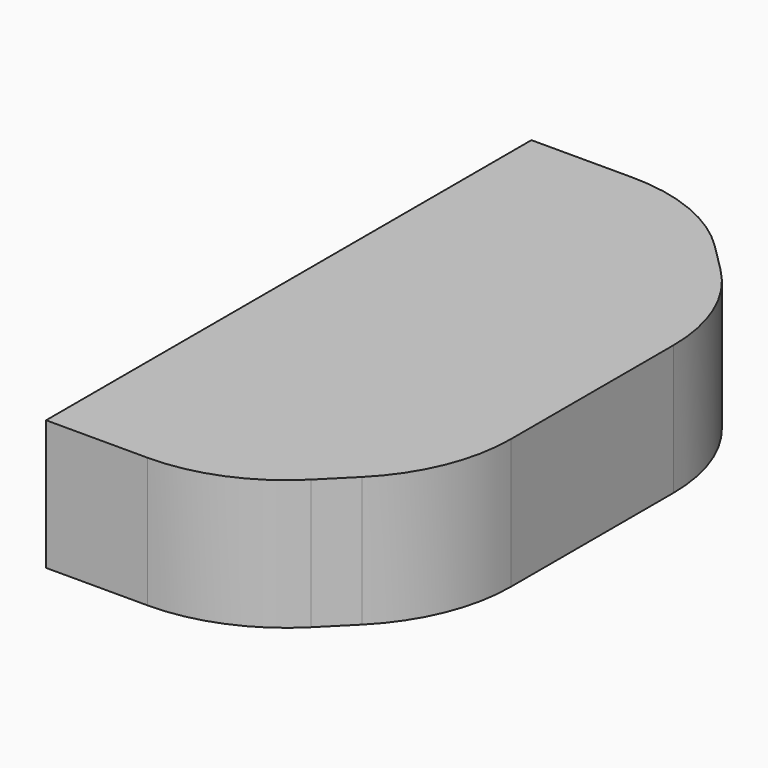
from build123d import *

# Parameters (mm, degrees)
F1_DEPTH = 38.1


with BuildPart() as f1:
    # F0 (on Top) → F1 (new body)
    with BuildSketch(Plane.XY):
        with BuildLine():
            Line((0, 88.9), (0, 0))
            Line((0, 0), (88.9, 0))
            Line((88.9, 0), (88.9, 29.757951))
            ThreePointArc((88.9, 29.757951), (85.03308, 49.198269), (74.021024, 65.678976))
            Line((74.021024, 65.678976), (65.678976, 74.021024))
            ThreePointArc((65.678976, 74.021024), (49.198269, 85.03308), (29.757951, 88.9))
            Line((29.757951, 88.9), (0, 88.9))
        make_face()
        with BuildLine():
            Line((88.9, 0), (0, 0))
            Line((0, 0), (0, -88.9))
            Line((0, -88.9), (29.757951, -88.9))
            ThreePointArc((29.757951, -88.9), (49.198269, -85.03308), (65.678976, -74.021024))
            Line((65.678976, -74.021024), (74.021024, -65.678976))
            ThreePointArc((74.021024, -65.678976), (85.03308, -49.198269), (88.9, -29.757951))
            Line((88.9, -29.757951), (88.9, 0))
        make_face()
    extrude(amount=F1_DEPTH)


solid = f1.part
